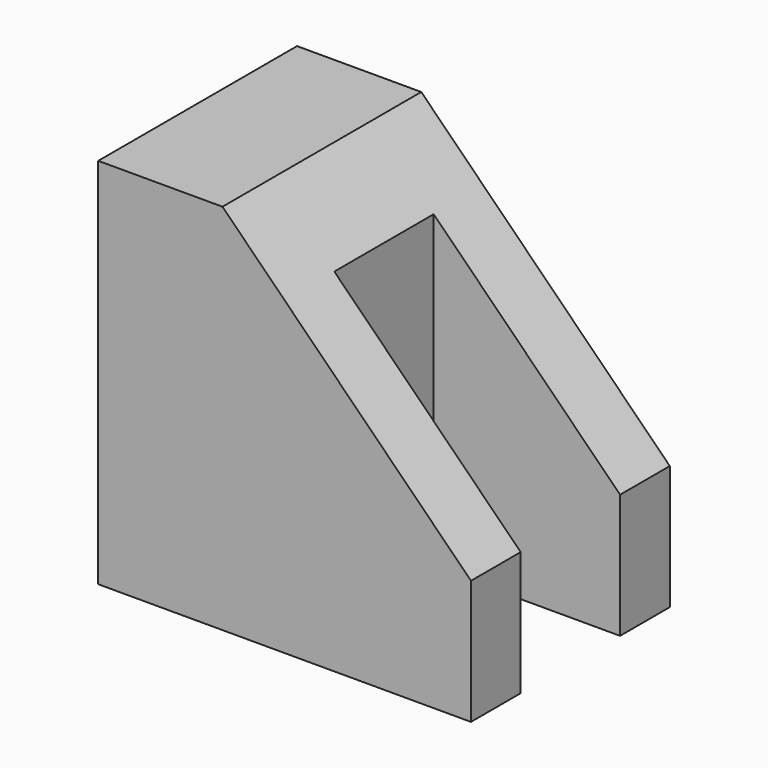
from build123d import *

# Parameters (mm, degrees)
F1_DEPTH = 20
F2_DEPTH = 20
F3_DEPTH = 10


with BuildPart() as f1:
    # F0 (on Front) → F1 (new body, symmetric)
    with BuildSketch(Plane.XZ):
        Polygon((0, 60), (0, 0), (30, 0), (30, 50), (20, 60), align=None)
    extrude(amount=F1_DEPTH, both=True)

    # F0 (on Front) → F2 (join, symmetric)
    with BuildSketch(Plane.XZ):
        Polygon((30, 50), (30, 0), (60, 0), (60, 20), align=None)
    extrude(amount=F2_DEPTH, both=True)

    # F0 (on Front) → F3 (cut, symmetric)
    with BuildSketch(Plane.XZ):
        Polygon((30, 50), (30, 0), (60, 0), (60, 20), align=None)
    extrude(amount=F3_DEPTH, both=True, mode=Mode.SUBTRACT)


solid = f1.part
